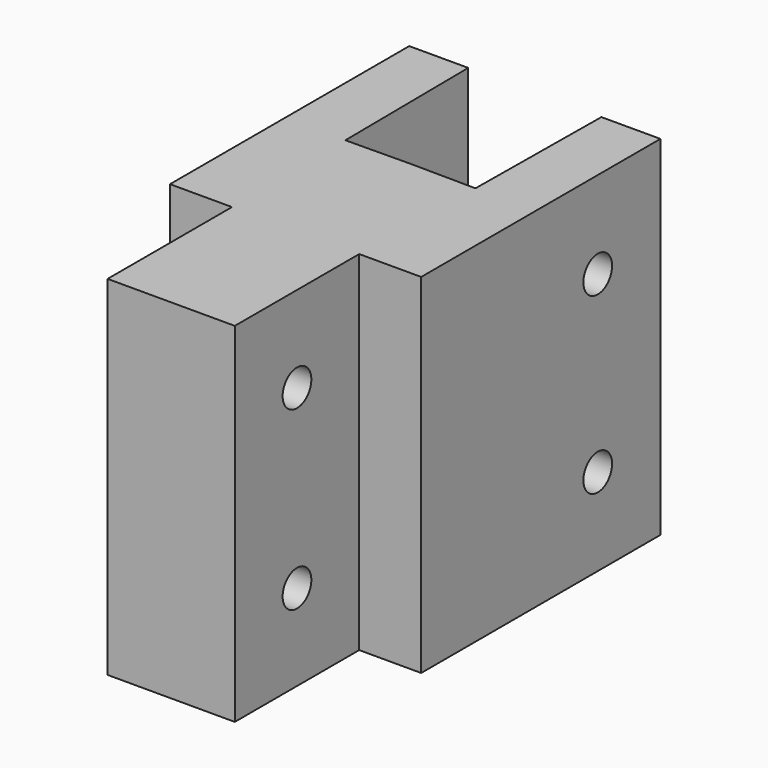
from build123d import *

# Parameters (mm, degrees)
F1_DEPTH = 58.3
F2_R     = 3
F3_DEPTH = 25
F4_R     = 3
F5_DEPTH = 25
F6_DEPTH = 100


with BuildPart() as f1:
    # F0 (on Top) → F1 (new body)
    with BuildSketch(Plane.XY):
        Polygon((-10.635, 0), (-10.635, -26), (10.635, -26), (10.635, 0), (21, 0), (21, 50), (11.135, 50), (10.875, 24), (0, 24.10875), (-10.875, 24), (-11.135, 50), (-21, 50), (-21, 0), align=None)
    extrude(amount=F1_DEPTH)

    # F2 (on face) → F3 (cut)
    with BuildSketch(Plane(origin=(-10.635, 0, 0), x_dir=(0, -1, 0), z_dir=(-1, 0, 0))):
        with Locations((13, 14.4)):
            Circle(F2_R)
        with Locations((13, 43.9)):
            Circle(F2_R)
    extrude(amount=-F3_DEPTH, mode=Mode.SUBTRACT)

    # F4 (on face) → F5 (cut)
    with BuildSketch(Plane(origin=(10.633937, -0.106339, 0), x_dir=(-0.01, -0.99995, 0), z_dir=(-0.99995, 0.01, 0))):
        with Locations((-37.108195, 14.577401)):
            Circle(F4_R)
        with Locations((-37.108195, 43.722599)):
            Circle(F4_R)
    extrude(amount=-F5_DEPTH, mode=Mode.SUBTRACT)

    # F4 (on face) → F6 (cut)
    with BuildSketch(Plane(origin=(10.633937, -0.106339, 0), x_dir=(-0.01, -0.99995, 0), z_dir=(-0.99995, 0.01, 0))):
        with Locations((-37.108195, 43.722599)):
            Circle(F4_R)
        with Locations((-37.108195, 14.577401)):
            Circle(F4_R)
    extrude(amount=F6_DEPTH, mode=Mode.SUBTRACT)


solid = f1.part
